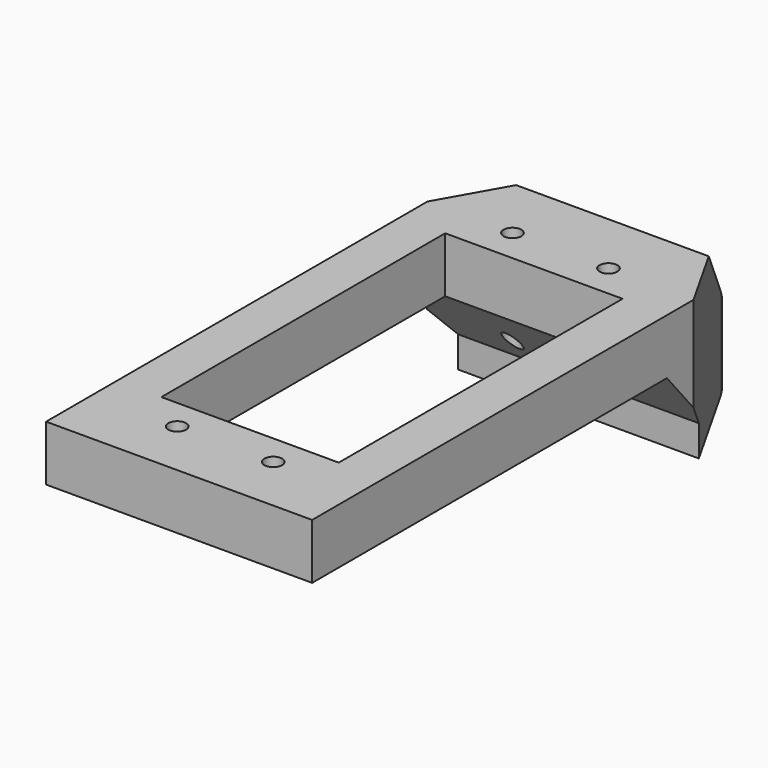
from build123d import *

# Parameters (mm, degrees)
F0_R     = 1.016
F0_W     = 20.32
F0_H     = 40.64
F1_DEPTH = 17.526
F3_DEPTH = 30.481


with BuildPart() as f1:
    # F0 (on Top) → F1 (new body)
    with BuildSketch(Plane.XY):
        with BuildLine():
            Line((-7.738446, 27.235907), (-15.24, 13.97))
            Line((-15.24, 13.97), (-15.24, -40.64))
            Line((-15.24, -40.64), (15.24, -40.64))
            Line((15.24, -40.64), (15.24, 13.97))
            Line((15.24, 13.97), (7.738446, 27.235907))
            ThreePointArc((7.738446, 27.235907), (4.479413, 30.538994), (0, 31.75))
            ThreePointArc((0, 31.75), (-4.479413, 30.538994), (-7.738446, 27.235907))
        make_face()
        with Locations((-5.4991, -34.036)):
            Circle(F0_R, mode=Mode.SUBTRACT)
        with Locations((5.4991, -34.036)):
            Circle(F0_R, mode=Mode.SUBTRACT)
        with Locations((0, -10.16)):
            Rectangle(F0_W, F0_H, mode=Mode.SUBTRACT)
        with Locations((-5.4991, 13.97)):
            Circle(F0_R, mode=Mode.SUBTRACT)
        with Locations((5.4991, 13.97)):
            Circle(F0_R, mode=Mode.SUBTRACT)
    extrude(amount=F1_DEPTH)

    # F2 (on face) → F3 (intersect, through all)
    with BuildSketch(Plane.YZ.offset(15.24)):
        Polygon((21.41039, 17.526), (-40.64, 17.526), (-40.64, 11.176), (10.16, 11.176), (16.553939, 3.556), (16.553939, 0), (31.75, 0), (31.75, 5.203733), align=None)
    extrude(amount=-F3_DEPTH, mode=Mode.INTERSECT)


solid = f1.part
